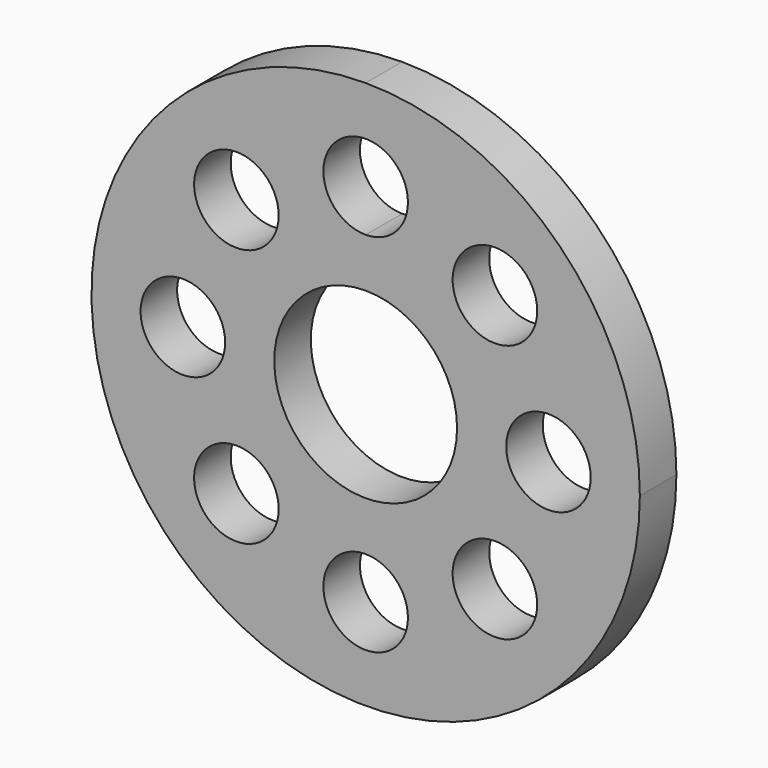
from build123d import *

# Parameters (mm, degrees)
F0_R     = 1.85
F1_DEPTH = 2


with BuildPart() as f1:
    # F0 (on Front) → F1 (new body)
    with BuildSketch(Plane.XZ):
        with BuildLine():
            ThreePointArc((0, 12), (-8.485281, -8.485281), (12, 0))
            ThreePointArc((12, 0), (8.485281, 8.485281), (0, 12))
        make_face()
        with Locations((-5.656854, -5.656854)):
            Circle(F0_R, mode=Mode.SUBTRACT)
        with Locations((0, -8)):
            Circle(F0_R, mode=Mode.SUBTRACT)
        with Locations((5.656854, -5.656854)):
            Circle(F0_R, mode=Mode.SUBTRACT)
        with Locations((-8, 0)):
            Circle(F0_R, mode=Mode.SUBTRACT)
        with Locations((-5.656854, 5.656854)):
            Circle(F0_R, mode=Mode.SUBTRACT)
        with BuildLine():
            ThreePointArc((4, 0), (-2.828427, -2.828427), (0, 4))
            ThreePointArc((0, 4), (2.828427, 2.828427), (4, 0))
        make_face(mode=Mode.SUBTRACT)
        with Locations((5.656854, 5.656854)):
            Circle(F0_R, mode=Mode.SUBTRACT)
        with Locations((8, 0)):
            Circle(F0_R, mode=Mode.SUBTRACT)
        with BuildLine():
            ThreePointArc((0, 6.15), (-1.85, 8), (0, 9.85))
            ThreePointArc((0, 9.85), (1.308148, 9.308148), (1.85, 8))
            ThreePointArc((1.85, 8), (1.308148, 6.691852), (0, 6.15))
        make_face(mode=Mode.SUBTRACT)
    extrude(amount=F1_DEPTH)


solid = f1.part
